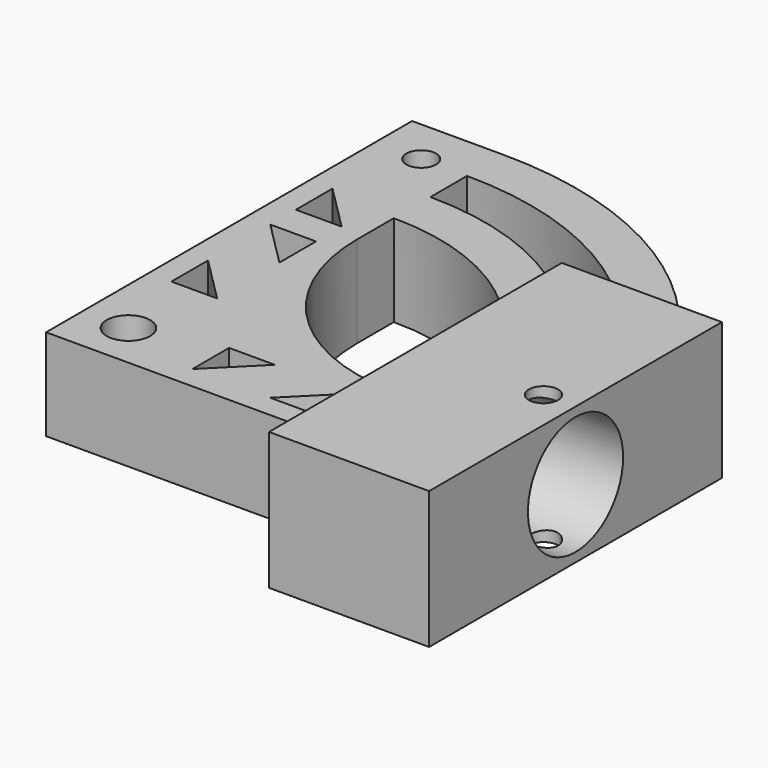
from build123d import *

# Parameters (mm, degrees)
F0_R     = 4.75
F1_DEPTH = 20
F2_DEPTH = 30
F3_R     = 13
F4_DEPTH = 25


with BuildPart() as f1:
    # F0 (on Top) → F1 (new body)
    with BuildSketch(Plane.XY):
        with BuildLine():
            Line((76.6160202911, 30.1966461055), (66.1766930438, 30.1966461055))
            ThreePointArc((66.1766930438, 30.1966461055), (73.2373422542, 14.1088810364), (76.6160202911, -3.132159736))
            Line((76.6160202911, -3.132159736), (76.6160202911, 30.1966461055))
        make_face()
        with BuildLine():
            ThreePointArc((76.6160202911, -3.132159736), (73.2373422542, 14.1088810364), (66.1766930438, 30.1966461055))
            Line((66.1766930438, 30.1966461055), (54.3402872065, 30.1966461055))
            ThreePointArc((54.3402872065, 30.1966461055), (63.4377209443, 11.9226935784), (66.8762698088, -8.198862606))
            ThreePointArc((66.8762698088, -8.198862606), (70.4472594921, -6.7390976404), (72.7910202911, -9.8033538945))
            ThreePointArc((72.7910202911, -9.8033538945), (70.4472594921, -12.8676101486), (66.8762698088, -11.407845183))
            ThreePointArc((66.8762698088, -11.407845183), (63.4377209443, -31.5294013674), (54.3402872065, -49.8033538945))
            Line((54.3402872065, -49.8033538945), (66.1766930438, -49.8033538945))
            ThreePointArc((66.1766930438, -49.8033538945), (73.2373422542, -33.7155888254), (76.6160202911, -16.474548053))
            Line((76.6160202911, -16.474548053), (76.6160202911, -3.132159736))
        make_face()
        with BuildLine():
            ThreePointArc((66.8762698088, -8.198862606), (63.4377209443, 11.9226935784), (54.3402872065, 30.1966461055))
            Line((54.3402872065, 30.1966461055), (41.6160202911, 30.1966461055))
            ThreePointArc((41.6160202911, 30.1966461055), (52.9450022789, 11.6059714919), (56.8946607411, -9.8033538945))
            ThreePointArc((56.8946607411, -9.8033538945), (52.9450022789, -31.2126792809), (41.6160202911, -49.8033538945))
            Line((41.6160202911, -49.8033538945), (54.3402872065, -49.8033538945))
            ThreePointArc((54.3402872065, -49.8033538945), (63.4377209443, -31.5294013674), (66.8762698088, -11.407845183))
            ThreePointArc((66.8762698088, -11.407845183), (66.4410202911, -9.8033538945), (66.8762698088, -8.198862606))
        make_face()
        with BuildLine():
            ThreePointArc((76.6160202911, -16.474548053), (73.2373422542, -33.7155888254), (66.1766930438, -49.8033538945))
            Line((66.1766930438, -49.8033538945), (76.6160202911, -49.8033538945))
            Line((76.6160202911, -49.8033538945), (76.6160202911, -16.474548053))
        make_face()
        with BuildLine():
            ThreePointArc((56.8946607411, -9.8033538945), (52.9450022789, 11.6059714919), (41.6160202911, 30.1966461055))
            Line((41.6160202911, 30.1966461055), (41.6160202911, 12.5573258805))
            ThreePointArc((41.6160202911, 12.5573258805), (45.5571102145, 1.6842921329), (46.8946607411, -9.8033538945))
            ThreePointArc((46.8946607411, -9.8033538945), (45.5571102145, -21.2909999219), (41.6160202911, -32.1640336695))
            Line((41.6160202911, -32.1640336695), (41.6160202911, -49.8033538945))
            ThreePointArc((41.6160202911, -49.8033538945), (52.9450022789, -31.2126792809), (56.8946607411, -9.8033538945))
        make_face()
        with BuildLine():
            ThreePointArc((46.8946607411, -9.8033538945), (45.5571102145, 1.6842921329), (41.6160202911, 12.5573258805))
            Line((41.6160202911, 12.5573258805), (41.6160202911, -8.8033538945))
            Line((41.6160202911, -8.8033538945), (41.6160202911, -29.8033538945))
            Line((41.6160202911, -29.8033538945), (41.6160202911, -30.8033538945))
            Line((41.6160202911, -30.8033538945), (41.6160202911, -32.1640336695))
            ThreePointArc((41.6160202911, -32.1640336695), (45.5571102145, -21.2909999219), (46.8946607411, -9.8033538945))
        make_face()
        with BuildLine():
            Line((-3.1053392589, 30.1966461055), (-3.1053392589, 40.1966461055))
            ThreePointArc((-3.1053392589, 40.1966461055), (-8.9600600243, 39.8526854639), (-14.7342290493, 38.8255358959))
            Line((-14.7342290493, 38.8255358959), (-8.1053392589, 32.1966461055))
            Line((-8.1053392589, 32.1966461055), (-18.1053392589, 32.1966461055))
            Line((-18.1053392589, 32.1966461055), (-18.1053392589, 37.8936061763))
            ThreePointArc((-18.1053392589, 37.8936061763), (-20.630331421, 37.0247856128), (-23.1053392589, 36.0224030551))
            Line((-23.1053392589, 36.0224030551), (-23.1053392589, -29.8033538945))
            Line((-23.1053392589, -29.8033538945), (-3.1053392589, -29.8033538945))
            Line((-3.1053392589, -29.8033538945), (40.6160202911, -29.8033538945))
            Line((40.6160202911, -29.8033538945), (41.6160202911, -29.8033538945))
            Line((41.6160202911, -29.8033538945), (41.6160202911, -8.8033538945))
            ThreePointArc((41.6160202911, -8.8033538945), (41.3231270723, -9.5104606757), (40.6160202911, -9.8033538945))
            Line((40.6160202911, -9.8033538945), (36.8946607411, -9.8033538945))
            ThreePointArc((36.8946607411, -9.8033538945), (8.6103894936, 1.912374858), (-3.1053392589, 30.1966461055))
        make_face()
        with Locations((-13.1053392589, -19.8033538945)):
            Circle(F0_R, mode=Mode.SUBTRACT)
        Polygon((4.8946607411, -14.8033538945), (14.8946607411, -14.8033538945), (4.8946607411, -24.8033538945), align=None, mode=Mode.SUBTRACT)
        Polygon((31.8946607411, -24.8033538945), (21.8946607411, -24.8033538945), (31.8946607411, -14.8033538945), align=None, mode=Mode.SUBTRACT)
        Polygon((-18.1053392589, -1.8033538945), (-18.1053392589, 8.1966461055), (-8.1053392589, -1.8033538945), align=None, mode=Mode.SUBTRACT)
        Polygon((-8.1053392589, 25.1966461055), (-8.1053392589, 15.1966461055), (-18.1053392589, 25.1966461055), align=None, mode=Mode.SUBTRACT)
        with BuildLine():
            Line((-3.1053392589, 40.1966461055), (-3.1053392589, 50.1966461055))
            ThreePointArc((-3.1053392589, 50.1966461055), (-13.2514579825, 49.3325596847), (-23.1053392589, 46.7651886004))
            Line((-23.1053392589, 46.7651886004), (-23.1053392589, 36.0224030551))
            ThreePointArc((-23.1053392589, 36.0224030551), (-20.630331421, 37.0247856128), (-18.1053392589, 37.8936061763))
            Line((-18.1053392589, 37.8936061763), (-18.1053392589, 42.1966461055))
            Line((-18.1053392589, 42.1966461055), (-14.7342290493, 38.8255358959))
            ThreePointArc((-14.7342290493, 38.8255358959), (-8.9600600243, 39.8526854639), (-3.1053392589, 40.1966461055))
        make_face()
        with BuildLine():
            Line((-3.1053392589, 50.1966461055), (-3.1053392589, 60.1966461055))
            ThreePointArc((-3.1053392589, 60.1966461055), (-6.4925947199, 60.1146445068), (-9.8719141705, 59.8688318324))
            ThreePointArc((-9.8719141705, 59.8688318324), (-12.6457198511, 56.9793102511), (-16.1176393473, 58.9765853786))
            ThreePointArc((-16.1176393473, 58.9765853786), (-19.6333066276, 58.2174245093), (-23.1053392589, 57.2786854305))
            Line((-23.1053392589, 57.2786854305), (-23.1053392589, 46.7651886004))
            ThreePointArc((-23.1053392589, 46.7651886004), (-13.2514579825, 49.3325596847), (-3.1053392589, 50.1966461055))
        make_face()
        with BuildLine():
            Line((-3.1053392589, 60.1966461055), (-3.1053392589, 70.1966461055))
            ThreePointArc((-3.1053392589, 70.1966461055), (-13.1856826575, 69.5590218069), (-23.1053392589, 67.6563130296))
            Line((-23.1053392589, 67.6563130296), (-23.1053392589, 57.2786854305))
            ThreePointArc((-23.1053392589, 57.2786854305), (-19.6333066276, 58.2174245093), (-16.1176393473, 58.9765853786))
            ThreePointArc((-16.1176393473, 58.9765853786), (-13.7268393445, 63.3866676797), (-9.8553392589, 60.1966461055))
            ThreePointArc((-9.8553392589, 60.1966461055), (-9.8594856318, 60.0325295879), (-9.8719141705, 59.8688318324))
            ThreePointArc((-9.8719141705, 59.8688318324), (-6.4925947199, 60.1146445068), (-3.1053392589, 60.1966461055))
        make_face()
        with BuildLine():
            ThreePointArc((-23.1053392589, 67.6563130296), (-13.1856826575, 69.5590218069), (-3.1053392589, 70.1966461055))
            Line((-3.1053392589, 70.1966461055), (-23.1053392589, 70.1966461055))
            Line((-23.1053392589, 70.1966461055), (-23.1053392589, 67.6563130296))
        make_face()
        with BuildLine():
            ThreePointArc((66.1766930438, 30.1966461055), (36.8946607411, 59.4786784083), (-3.1053392589, 70.1966461055))
            Line((-3.1053392589, 70.1966461055), (-3.1053392589, 60.1966461055))
            ThreePointArc((-3.1053392589, 60.1966461055), (29.2983642331, 52.2450143355), (54.3402872065, 30.1966461055))
            Line((54.3402872065, 30.1966461055), (66.1766930438, 30.1966461055))
        make_face()
        with BuildLine():
            ThreePointArc((41.6160202911, 30.1966461055), (21.3895581689, 44.968901856), (-3.1053392589, 50.1966461055))
            Line((-3.1053392589, 50.1966461055), (-3.1053392589, 40.1966461055))
            ThreePointArc((-3.1053392589, 40.1966461055), (23.181216347, 32.7291865231), (41.6160202911, 12.5573258805))
            Line((41.6160202911, 12.5573258805), (41.6160202911, 30.1966461055))
        make_face()
    extrude(amount=F1_DEPTH)

    # F0 (on Top) → F2 (join)
    with BuildSketch(Plane.XY):
        with BuildLine():
            ThreePointArc((56.8946607411, -9.8033538945), (52.9450022789, 11.6059714919), (41.6160202911, 30.1966461055))
            Line((41.6160202911, 30.1966461055), (41.6160202911, 12.5573258805))
            ThreePointArc((41.6160202911, 12.5573258805), (45.5571102145, 1.6842921329), (46.8946607411, -9.8033538945))
            ThreePointArc((46.8946607411, -9.8033538945), (45.5571102145, -21.2909999219), (41.6160202911, -32.1640336695))
            Line((41.6160202911, -32.1640336695), (41.6160202911, -49.8033538945))
            ThreePointArc((41.6160202911, -49.8033538945), (52.9450022789, -31.2126792809), (56.8946607411, -9.8033538945))
        make_face()
        with BuildLine():
            ThreePointArc((66.8762698088, -8.198862606), (63.4377209443, 11.9226935784), (54.3402872065, 30.1966461055))
            Line((54.3402872065, 30.1966461055), (41.6160202911, 30.1966461055))
            ThreePointArc((41.6160202911, 30.1966461055), (52.9450022789, 11.6059714919), (56.8946607411, -9.8033538945))
            ThreePointArc((56.8946607411, -9.8033538945), (52.9450022789, -31.2126792809), (41.6160202911, -49.8033538945))
            Line((41.6160202911, -49.8033538945), (54.3402872065, -49.8033538945))
            ThreePointArc((54.3402872065, -49.8033538945), (63.4377209443, -31.5294013674), (66.8762698088, -11.407845183))
            ThreePointArc((66.8762698088, -11.407845183), (66.4410202911, -9.8033538945), (66.8762698088, -8.198862606))
        make_face()
        with BuildLine():
            ThreePointArc((76.6160202911, -3.132159736), (73.2373422542, 14.1088810364), (66.1766930438, 30.1966461055))
            Line((66.1766930438, 30.1966461055), (54.3402872065, 30.1966461055))
            ThreePointArc((54.3402872065, 30.1966461055), (63.4377209443, 11.9226935784), (66.8762698088, -8.198862606))
            ThreePointArc((66.8762698088, -8.198862606), (70.4472594921, -6.7390976404), (72.7910202911, -9.8033538945))
            ThreePointArc((72.7910202911, -9.8033538945), (70.4472594921, -12.8676101486), (66.8762698088, -11.407845183))
            ThreePointArc((66.8762698088, -11.407845183), (63.4377209443, -31.5294013674), (54.3402872065, -49.8033538945))
            Line((54.3402872065, -49.8033538945), (66.1766930438, -49.8033538945))
            ThreePointArc((66.1766930438, -49.8033538945), (73.2373422542, -33.7155888254), (76.6160202911, -16.474548053))
            Line((76.6160202911, -16.474548053), (76.6160202911, -3.132159736))
        make_face()
        with BuildLine():
            ThreePointArc((76.6160202911, -16.474548053), (73.2373422542, -33.7155888254), (66.1766930438, -49.8033538945))
            Line((66.1766930438, -49.8033538945), (76.6160202911, -49.8033538945))
            Line((76.6160202911, -49.8033538945), (76.6160202911, -16.474548053))
        make_face()
        with BuildLine():
            Line((76.6160202911, 30.1966461055), (66.1766930438, 30.1966461055))
            ThreePointArc((66.1766930438, 30.1966461055), (73.2373422542, 14.1088810364), (76.6160202911, -3.132159736))
            Line((76.6160202911, -3.132159736), (76.6160202911, 30.1966461055))
        make_face()
        with BuildLine():
            ThreePointArc((46.8946607411, -9.8033538945), (45.5571102145, 1.6842921329), (41.6160202911, 12.5573258805))
            Line((41.6160202911, 12.5573258805), (41.6160202911, -8.8033538945))
            Line((41.6160202911, -8.8033538945), (41.6160202911, -29.8033538945))
            Line((41.6160202911, -29.8033538945), (41.6160202911, -30.8033538945))
            Line((41.6160202911, -30.8033538945), (41.6160202911, -32.1640336695))
            ThreePointArc((41.6160202911, -32.1640336695), (45.5571102145, -21.2909999219), (46.8946607411, -9.8033538945))
        make_face()
    extrude(amount=F2_DEPTH)

    # F3 (on face) → F4 (cut)
    with BuildSketch(Plane.YZ.offset(76.6160202911)):
        with Locations((-9.8033538945, 15)):
            Circle(F3_R)
    extrude(amount=-F4_DEPTH, mode=Mode.SUBTRACT)


solid = f1.part
